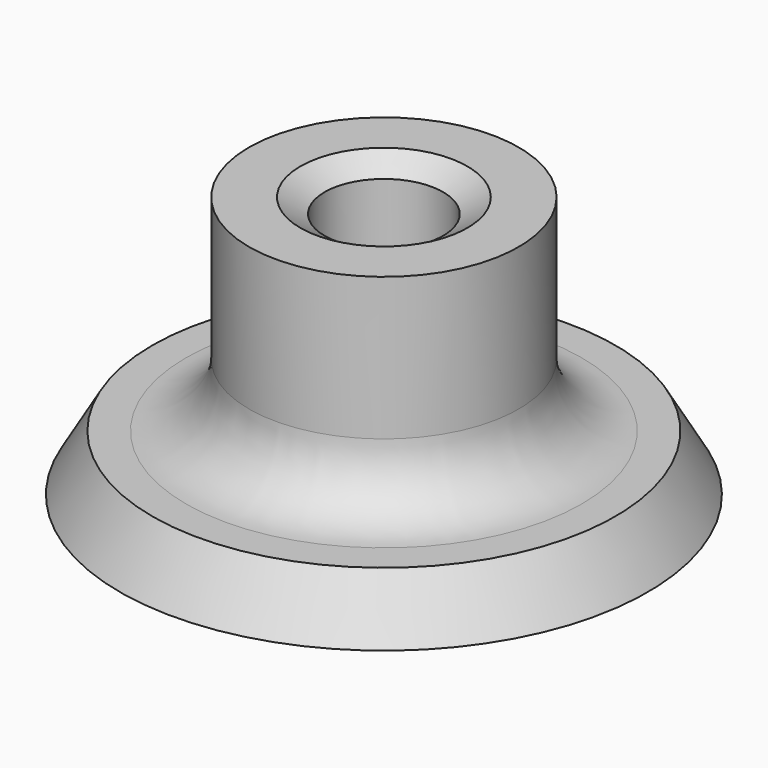
from build123d import *


with BuildPart() as f1:
    # F0 (on Front) → F1 (revolve)
    with BuildSketch(Plane.XZ):
        with BuildLine():
            Line((-5.969, 9.596622), (-5.969, 24.892))
            Line((-5.969, 24.892), (-8.412302, 26.384082))
            Line((-8.412302, 26.384082), (-13.589, 26.384082))
            Line((-13.589, 26.384082), (-13.589, 12.002977))
            ThreePointArc((-13.589, 12.002977), (-15.448872, 7.512849), (-19.939, 5.652977))
            Line((-19.939, 5.652977), (-23.33023, 5.652977))
            Line((-23.33023, 5.652977), (-26.593978, 0))
            Line((-26.593978, 0), (0, 0))
            Line((0, 0), (0, 8.731734))
            Line((0, 8.731734), (-5.104112, 8.731734))
            ThreePointArc((-5.104112, 8.731734), (-5.71568, 8.985054), (-5.969, 9.596622))
        make_face()
    revolve(axis=Axis((0, 0, 12.446), (0, 0, 1)))


solid = f1.part
